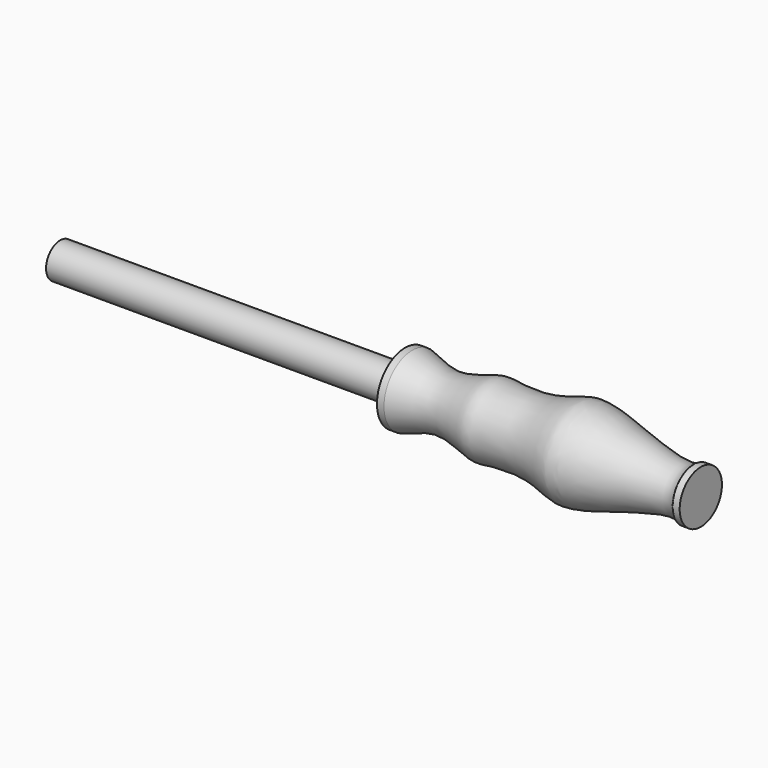
from build123d import *

# Parameters (mm, degrees)
F0_W   = 98
F0_H   = 5
F0_W_2 = 2
F0_H_2 = 7.5


with BuildPart() as f1:
    # F0 (on Top) → F1 (revolve)
    with BuildSketch(Plane.XY):
        with BuildLine():
            Line((0, 10), (0, 0))
            Line((0, 0), (80, 0))
            Line((80, 0), (80, 7.5))
            add(Edge.make_bspline(
                [(80, 7.5), (77.4320963341, 5.4602127374), (64.9277701604, 8.6077862709), (53.6662401112, 12.0157463446), (50.0245369175, 12.5048198747), (46.3291163152, 12.9393686412), (36.7743339747, 8.9436592945), (24.9276027824, 9.9274888653), (21.6319746465, 10.5063086165), (10.220435011, 5.9188095094), (4.6241535969, 8.6259927698), (0, 10)],
                knots=[0, 0, 0, 0, 0.1463849193, 0.2822756936, 0.3513645208, 0.4207173296, 0.544584059, 0.6744916377, 0.7457775925, 0.8705254251, 1, 1, 1, 1], degree=3))
        make_face()
        Polygon((-2, 0), (0, 0), (0, 10), (-2, 10), (-2, 5), align=None)
        with Locations((-51, 2.5)):
            Rectangle(F0_W, F0_H)
        with Locations((81, 3.75)):
            Rectangle(F0_W_2, F0_H_2)
    revolve(axis=Axis((-50, 0, 0), (-1, 0, 0)))


solid = f1.part
